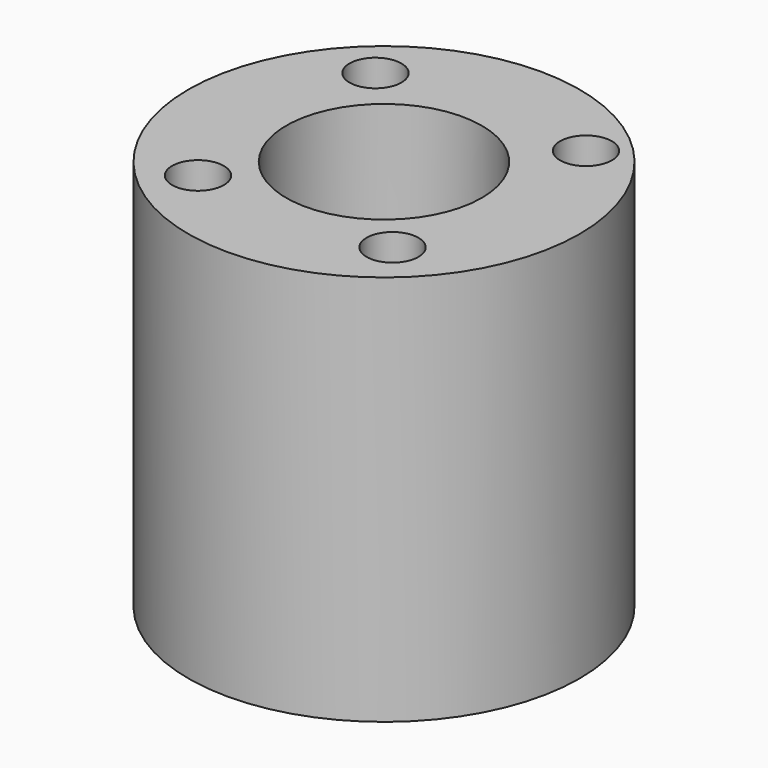
from build123d import *

# Parameters (mm, degrees)
F0_R     = 12.7
F0_R_2   = 1.68372
F0_R_3   = 6.35
F1_DEPTH = 25.4
F0_R_4   = 4.0005
F2_DEPTH = 7.62
F3_DEPTH = 7.62


with BuildPart() as f1:
    # F0 (on Top) → F1 (new body)
    with BuildSketch(Plane.XY):
        Circle(F0_R)
        with Locations((-6.423387, -7.064583)):
            Circle(F0_R_2, mode=Mode.SUBTRACT)
        with Locations((6.204293, -7.064583)):
            Circle(F0_R_2, mode=Mode.SUBTRACT)
        Circle(F0_R_3, mode=Mode.SUBTRACT)
        with Locations((-6.423387, 7.338002)):
            Circle(F0_R_2, mode=Mode.SUBTRACT)
        with Locations((7.240649, 7.338002)):
            Circle(F0_R_2, mode=Mode.SUBTRACT)
    extrude(amount=F1_DEPTH)

    # F0 (on Top) → F2 (join)
    with BuildSketch(Plane.XY):
        Circle(F0_R_3)
        Circle(F0_R_4, mode=Mode.SUBTRACT)
    extrude(amount=F2_DEPTH)

    # F0 (on Top) → F3 (join)
    with BuildSketch(Plane.XY):
        Circle(F0_R_4)
    extrude(amount=F3_DEPTH)


solid = f1.part
